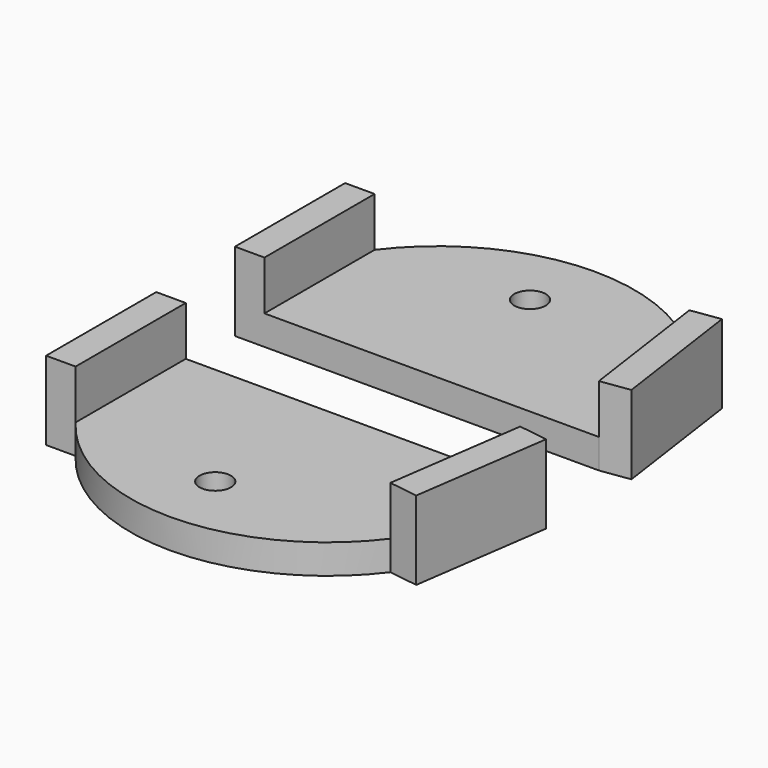
from build123d import *

# Parameters (mm, degrees)
F0_R     = 0.8
F1_DEPTH = 1.5
F0_W     = 1.5
F0_H     = 7
F2_DEPTH = 4


with BuildPart() as f1:
    # F0 (on Top) → F1 (new body)
    with BuildSketch(Plane.XY):
        with BuildLine():
            Line((0, 7), (0, 0))
            Line((0, 0), (17, 0))
            Line((17, 0), (16, 7))
            ThreePointArc((16, 7), (8, 11), (0, 7))
        make_face()
        with Locations((7.5, 7.5)):
            Circle(F0_R, mode=Mode.SUBTRACT)
    extrude(amount=F1_DEPTH)

    # F0 (on Top) → F2 (join)
    with BuildSketch(Plane.XY):
        with Locations((-0.75, 3.5)):
            Rectangle(F0_W, F0_H)
        Polygon((16, 7), (17, 0), (18.484924, 0.212132), (17.484924, 7.212132), align=None)
    extrude(amount=F2_DEPTH)


with BuildPart() as f3_1:
    # F3: instance of F1
    add(f1.part.mirror(Plane.XZ))


with BuildPart() as f3_1_1:
    # F4: moved
    add(f3_1.part.moved(Location((0, -5, 0))))


solid = Compound([f1.part, f3_1_1.part])
